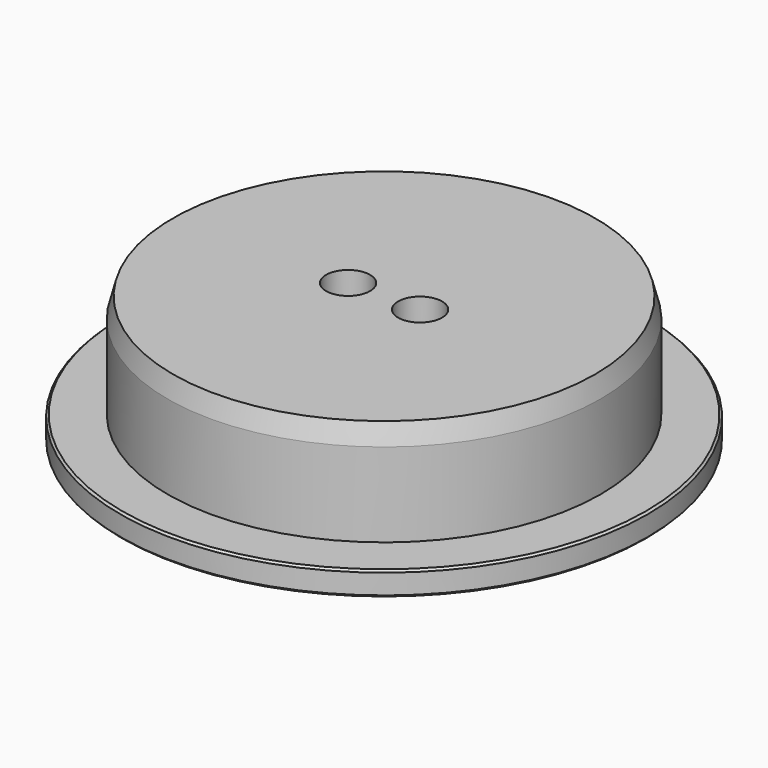
from build123d import *

# Parameters (mm, degrees)
F2_SIZE        = 0.5
F3_SIZE        = 0.5
F4_SIZE2       = 1.3397459622
F4_SIZE        = 5
F6_D           = 7
F7_D           = 7
F7_CBORE_D     = 11
F7_CBORE_DEPTH = 7.5
F9_D           = 6
F9_DEPTH       = 5
F9_TIP         = 1.8025818571


with BuildPart() as f1:
    # F0 (on Front) → F1 (revolve)
    with BuildSketch(Plane.XZ):
        Polygon((0, 32), (0, 0), (66, 0), (66, 6), (54.15, 6), (54.15, 32), align=None)
    revolve(axis=Axis((0, 0, 31.825657934), (0, 0, 1)))

    # F2
    f2_edges = [f1.edges().sort_by_distance(p)[0] for p in [
        (-66, 0, 6),
    ]]
    chamfer(f2_edges, length=F2_SIZE)

    # F3
    f3_edges = [f1.edges().sort_by_distance(p)[0] for p in [
        (-66, 0, 0),
    ]]
    chamfer(f3_edges, length=F3_SIZE)

    # F4
    f4_edges = [f1.edges().sort_by_distance(p)[0] for p in [
        (-54.15, 0, 32),
    ]]
    chamfer(f4_edges, length=F4_SIZE, length2=F4_SIZE2)

    # F6 (through all)
    with Locations(Plane.XY.offset(32)):
        with Locations((-9, 0), (9, 0)):
            Hole(F6_D / 2)

    # F7 (through all)
    with Locations(Plane.XY.offset(32)):
        with Locations((9, 0), (-9, 0)):
            CounterBoreHole(F7_D / 2, F7_CBORE_D / 2, F7_CBORE_DEPTH)

    # F9
    with Locations(Plane(origin=(0, 0, 0), x_dir=(1, 0, 0), z_dir=(0, 0, -1))):
        with Locations((0, 0)):
            Hole(F9_D / 2, depth=F9_DEPTH)
            with Locations((0, 0, -(F9_DEPTH + F9_TIP / 2))):  # 118° drill point
                Cone(0, F9_D / 2, F9_TIP, mode=Mode.SUBTRACT)


solid = f1.part
